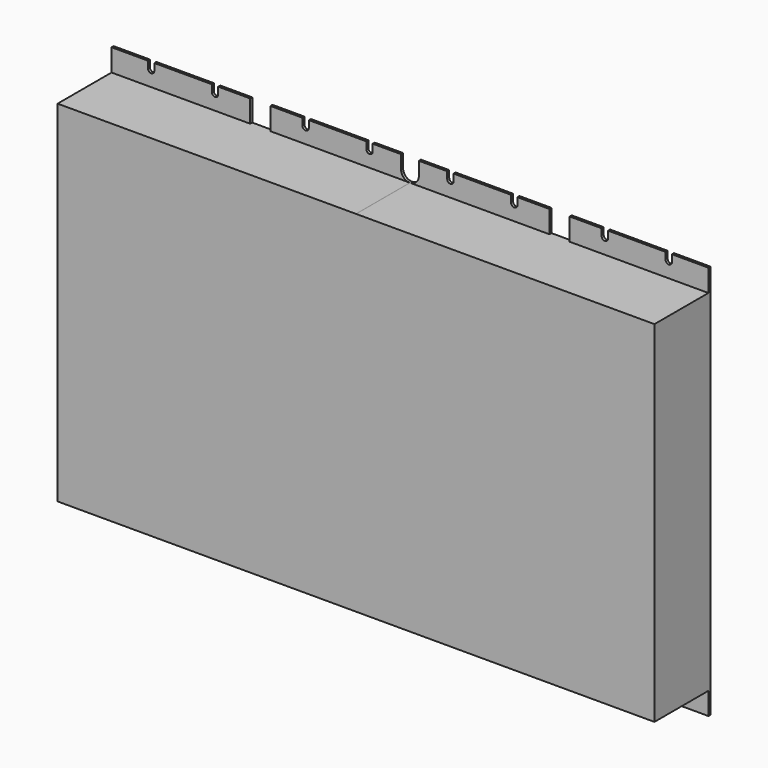
from build123d import *

# Parameters (mm, degrees)
F1_DEPTH = 43.942
F2_DEPTH = 1.5875


with BuildPart() as f1:
    # F0 (on Front) → F1 (new body)
    with BuildSketch(Plane.XZ):
        with BuildLine():
            Line((-187.452, 109.982), (-187.452, -109.982))
            Line((-187.452, -109.982), (-100.33, -109.982))
            Line((-100.33, -109.982), (-87.630004, -109.982))
            Line((-87.630004, -109.982), (-0.060038, -109.982))
            ThreePointArc((-0.060038, -109.982), (0, -109.981677), (0.060038, -109.982))
            Line((0.060038, -109.982), (87.630004, -109.982))
            Line((87.630004, -109.982), (100.33, -109.982))
            Line((100.33, -109.982), (187.452, -109.982))
            Line((187.452, -109.982), (187.452, 109.982))
            Line((187.452, 109.982), (100.33, 109.982))
            Line((100.33, 109.982), (87.630004, 109.982))
            Line((87.630004, 109.982), (0.060038, 109.982))
            ThreePointArc((0.060038, 109.982), (0, 109.981677), (-0.060038, 109.982))
            Line((-0.060038, 109.982), (-87.630004, 109.982))
            Line((-87.630004, 109.982), (-100.33, 109.982))
            Line((-100.33, 109.982), (-187.452, 109.982))
        make_face()
    extrude(amount=F1_DEPTH)

    # F0 (on Front) → F2 (join)
    with BuildSketch(Plane.XZ):
        with BuildLine():
            Line((-187.452, 123.952), (-187.452, 109.982))
            Line((-187.452, 109.982), (-100.33, 109.982))
            Line((-100.33, 109.982), (-100.33, 123.952))
            Line((-100.33, 123.952), (-120.4341, 123.952))
            Line((-120.4341, 123.952), (-120.4341, 119.612701))
            Line((-120.4341, 119.612701), (-120.4341, 119.579099))
            ThreePointArc((-120.4341, 119.579099), (-122.428, 117.601929), (-124.4219, 119.579099))
            Line((-124.4219, 119.579099), (-124.4219, 123.952))
            Line((-124.4219, 123.952), (-160.5661, 123.952))
            Line((-160.5661, 123.952), (-160.5661, 119.612701))
            Line((-160.5661, 119.612701), (-160.5661, 119.579099))
            ThreePointArc((-160.5661, 119.579099), (-161.15005, 118.18595), (-162.543199, 117.602))
            Line((-162.543199, 117.602), (-162.576801, 117.602))
            ThreePointArc((-162.576801, 117.602), (-163.96995, 118.18595), (-164.5539, 119.579099))
            Line((-164.5539, 119.579099), (-164.5539, 123.952))
            Line((-164.5539, 123.952), (-187.452, 123.952))
        make_face()
        with BuildLine():
            Line((-187.452, -109.982), (-187.452, -123.952))
            Line((-187.452, -123.952), (-164.5539, -123.952))
            Line((-164.5539, -123.952), (-164.5539, -119.579099))
            ThreePointArc((-164.5539, -119.579099), (-162.56, -117.601929), (-160.5661, -119.579099))
            Line((-160.5661, -119.579099), (-160.5661, -119.612701))
            Line((-160.5661, -119.612701), (-160.5661, -123.952))
            Line((-160.5661, -123.952), (-124.4219, -123.952))
            Line((-124.4219, -123.952), (-124.4219, -119.579099))
            ThreePointArc((-124.4219, -119.579099), (-122.428, -117.601929), (-120.4341, -119.579099))
            Line((-120.4341, -119.579099), (-120.4341, -119.612701))
            Line((-120.4341, -119.612701), (-120.4341, -123.952))
            Line((-120.4341, -123.952), (-100.33, -123.952))
            Line((-100.33, -123.952), (-100.33, -109.982))
            Line((-100.33, -109.982), (-187.452, -109.982))
        make_face()
        with BuildLine():
            ThreePointArc((5.588, 115.509962), (3.951541, 111.618459), (0.060038, 109.982))
            Line((0.060038, 109.982), (87.630004, 109.982))
            Line((87.630004, 109.982), (87.630004, 123.952))
            Line((87.630004, 123.952), (67.5259, 123.952))
            Line((67.5259, 123.952), (67.5259, 119.579099))
            ThreePointArc((67.5259, 119.579099), (65.532, 117.601929), (63.5381, 119.579099))
            Line((63.5381, 119.579099), (63.5381, 119.612701))
            Line((63.5381, 119.612701), (63.5381, 123.952))
            Line((63.5381, 123.952), (27.3939, 123.952))
            Line((27.3939, 123.952), (27.3939, 119.579099))
            ThreePointArc((27.3939, 119.579099), (25.4, 117.601929), (23.4061, 119.579099))
            Line((23.4061, 119.579099), (23.4061, 119.612701))
            Line((23.4061, 119.612701), (23.4061, 123.952))
            Line((23.4061, 123.952), (5.588, 123.952))
            Line((5.588, 123.952), (5.588, 115.630038))
            ThreePointArc((5.588, 115.630038), (5.588323, 115.57), (5.588, 115.509962))
        make_face()
        with BuildLine():
            Line((187.452, -109.982), (100.33, -109.982))
            Line((100.33, -109.982), (100.33, -123.952))
            Line((100.33, -123.952), (120.4341, -123.952))
            Line((120.4341, -123.952), (120.4341, -119.612701))
            ThreePointArc((120.4341, -119.612701), (120.434029, -119.5959), (120.4341, -119.579099))
            ThreePointArc((120.4341, -119.579099), (122.428, -117.601929), (124.4219, -119.579099))
            Line((124.4219, -119.579099), (124.4219, -123.952))
            Line((124.4219, -123.952), (160.5661, -123.952))
            Line((160.5661, -123.952), (160.5661, -119.612701))
            ThreePointArc((160.5661, -119.612701), (160.566029, -119.5959), (160.5661, -119.579099))
            ThreePointArc((160.5661, -119.579099), (162.56, -117.601929), (164.5539, -119.579099))
            Line((164.5539, -119.579099), (164.5539, -123.952))
            Line((164.5539, -123.952), (187.452, -123.952))
            Line((187.452, -123.952), (187.452, -109.982))
        make_face()
        with BuildLine():
            Line((-87.630004, 123.952), (-87.630004, 109.982))
            Line((-87.630004, 109.982), (-0.060038, 109.982))
            ThreePointArc((-0.060038, 109.982), (-3.951541, 111.618459), (-5.588, 115.509962))
            ThreePointArc((-5.588, 115.509962), (-5.588323, 115.57), (-5.588, 115.630038))
            Line((-5.588, 115.630038), (-5.588, 123.952))
            Line((-5.588, 123.952), (-23.4061, 123.952))
            Line((-23.4061, 123.952), (-23.4061, 119.612701))
            ThreePointArc((-23.4061, 119.612701), (-23.406029, 119.5959), (-23.4061, 119.579099))
            ThreePointArc((-23.4061, 119.579099), (-25.4, 117.601929), (-27.3939, 119.579099))
            Line((-27.3939, 119.579099), (-27.3939, 123.952))
            Line((-27.3939, 123.952), (-63.5381, 123.952))
            Line((-63.5381, 123.952), (-63.5381, 119.612701))
            ThreePointArc((-63.5381, 119.612701), (-63.538029, 119.5959), (-63.5381, 119.579099))
            ThreePointArc((-63.5381, 119.579099), (-65.532, 117.601929), (-67.5259, 119.579099))
            Line((-67.5259, 119.579099), (-67.5259, 123.952))
            Line((-67.5259, 123.952), (-87.630004, 123.952))
        make_face()
        with BuildLine():
            Line((-0.060038, -109.982), (-87.630004, -109.982))
            Line((-87.630004, -109.982), (-87.630004, -123.952))
            Line((-87.630004, -123.952), (-67.5259, -123.952))
            Line((-67.5259, -123.952), (-67.5259, -119.579099))
            ThreePointArc((-67.5259, -119.579099), (-65.532, -117.601929), (-63.5381, -119.579099))
            Line((-63.5381, -119.579099), (-63.5381, -119.612701))
            Line((-63.5381, -119.612701), (-63.5381, -123.952))
            Line((-63.5381, -123.952), (-27.3939, -123.952))
            Line((-27.3939, -123.952), (-27.3939, -119.579099))
            ThreePointArc((-27.3939, -119.579099), (-25.4, -117.601929), (-23.4061, -119.579099))
            Line((-23.4061, -119.579099), (-23.4061, -119.612701))
            Line((-23.4061, -119.612701), (-23.4061, -123.952))
            Line((-23.4061, -123.952), (-5.588, -123.952))
            Line((-5.588, -123.952), (-5.588, -115.630038))
            ThreePointArc((-5.588, -115.630038), (-5.588323, -115.57), (-5.588, -115.509962))
            ThreePointArc((-5.588, -115.509962), (-3.951541, -111.618459), (-0.060038, -109.982))
        make_face()
        with BuildLine():
            Line((87.630004, -109.982), (0.060038, -109.982))
            ThreePointArc((0.060038, -109.982), (3.951541, -111.618459), (5.588, -115.509962))
            ThreePointArc((5.588, -115.509962), (5.588323, -115.57), (5.588, -115.630038))
            Line((5.588, -115.630038), (5.588, -123.952))
            Line((5.588, -123.952), (23.4061, -123.952))
            Line((23.4061, -123.952), (23.4061, -119.612701))
            ThreePointArc((23.4061, -119.612701), (23.406029, -119.5959), (23.4061, -119.579099))
            ThreePointArc((23.4061, -119.579099), (25.4, -117.601929), (27.3939, -119.579099))
            Line((27.3939, -119.579099), (27.3939, -123.952))
            Line((27.3939, -123.952), (63.5381, -123.952))
            Line((63.5381, -123.952), (63.5381, -119.612701))
            ThreePointArc((63.5381, -119.612701), (63.538029, -119.5959), (63.5381, -119.579099))
            ThreePointArc((63.5381, -119.579099), (65.532, -117.601929), (67.5259, -119.579099))
            Line((67.5259, -119.579099), (67.5259, -123.952))
            Line((67.5259, -123.952), (87.630004, -123.952))
            Line((87.630004, -123.952), (87.630004, -109.982))
        make_face()
        with BuildLine():
            Line((100.33, 123.952), (100.33, 109.982))
            Line((100.33, 109.982), (187.452, 109.982))
            Line((187.452, 109.982), (187.452, 123.952))
            Line((187.452, 123.952), (164.5539, 123.952))
            Line((164.5539, 123.952), (164.5539, 119.579099))
            ThreePointArc((164.5539, 119.579099), (162.56, 117.601929), (160.5661, 119.579099))
            Line((160.5661, 119.579099), (160.5661, 119.612701))
            Line((160.5661, 119.612701), (160.5661, 123.952))
            Line((160.5661, 123.952), (124.4219, 123.952))
            Line((124.4219, 123.952), (124.4219, 119.579099))
            ThreePointArc((124.4219, 119.579099), (122.428, 117.601929), (120.4341, 119.579099))
            Line((120.4341, 119.579099), (120.4341, 119.612701))
            Line((120.4341, 119.612701), (120.4341, 123.952))
            Line((120.4341, 123.952), (100.33, 123.952))
        make_face()
    extrude(amount=F2_DEPTH)


solid = f1.part
